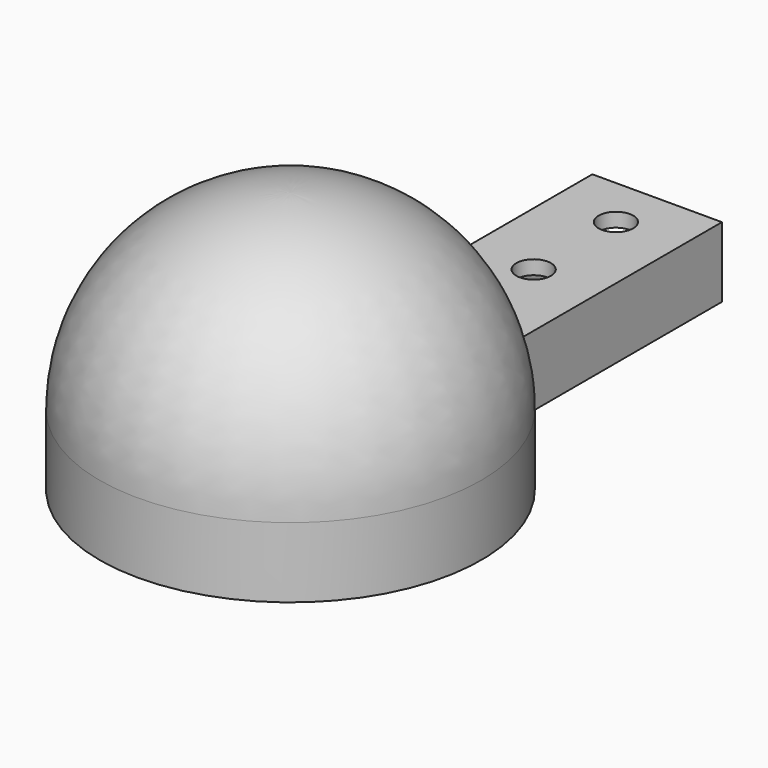
from build123d import *

# Parameters (mm, degrees)
SKETCH001_W       = 19.16
SKETCH001_H       = 49.52
EXTRUDE001_DEPTH  = 10.4
SKETCH138_W       = 24
SKETCH138_H       = 84.875
SKETCH138_R       = 3.2
EXTRUDE042_DEPTH  = 13
CYLINDER168_R     = 35.35
CYLINDER168_DEPTH = 13


with BuildPart() as extrude001:
    # Sketch001 → Extrude001 (new body)
    with BuildSketch(Plane.XY.offset(-13)):
        with Locations((0, 60.115)):
            Rectangle(SKETCH001_W, SKETCH001_H)
    extrude(amount=EXTRUDE001_DEPTH)


with BuildPart() as extrude042:
    # Sketch138 → Extrude042 (new body)
    with BuildSketch(Plane.XY):
        with Locations((0, 42.4375)):
            Rectangle(SKETCH138_W, SKETCH138_H)
        with Locations((0, 56.295)):
            Circle(SKETCH138_R, mode=Mode.SUBTRACT)
        with Locations((0, 75.345)):
            Circle(SKETCH138_R, mode=Mode.SUBTRACT)
    extrude(amount=-EXTRUDE042_DEPTH)


with BuildPart() as cylinder168:
    # Cylinder168 → Cylinder168 (new body)
    with BuildSketch(Plane(origin=(0, 0, 0), x_dir=(-1, 0, 0), z_dir=(0, 0, -1))):
        Circle(CYLINDER168_R)
    extrude(amount=CYLINDER168_DEPTH)


with BuildPart() as obj1:
    # Sphere → Sphere (revolve)
    with BuildSketch(Plane.XZ):
        with BuildLine():
            ThreePointArc((35.35, 0), (24.996225, 24.996225), (0, 35.35))
            Line((0, 35.35), (0, 0))
            Line((0, 0), (35.35, 0))
        make_face()
    revolve(axis=Axis((0, 0, 0), (0, 0, 1)))

    # Fusion107: union Extrude042, Cylinder168
    add(extrude042.part)
    add(cylinder168.part)

    # Cut057: cut Extrude001
    add(extrude001.part, mode=Mode.SUBTRACT)


with BuildPart() as obj1_1:
    # Cut057 placement: moved
    add(obj1.part.moved(Location((0, -450, -7))))


solid = obj1_1.part
